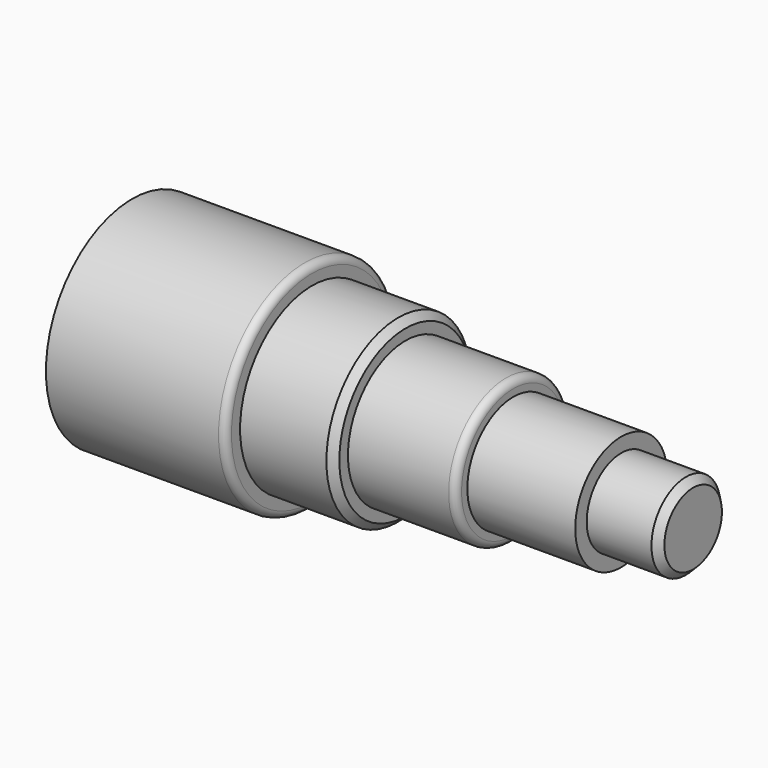
from build123d import *

# Parameters (mm, degrees)
F0_R     = 15
F1_DEPTH = 25
F2_R     = 12.5
F3_DEPTH = 13
F4_R     = 10
F5_DEPTH = 15
F6_R     = 8
F7_DEPTH = 15
F8_R     = 6
F9_DEPTH = 10
F10_R    = 1
F11_SIZE = 1


with BuildPart() as f1:
    # F0 (on Right) → F1 (new body)
    with BuildSketch(Plane.YZ):
        Circle(F0_R)
    extrude(amount=-F1_DEPTH)

    # F2 (on face) → F3 (join)
    with BuildSketch(Plane.YZ):
        Circle(F2_R)
    extrude(amount=F3_DEPTH)

    # F4 (on face) → F5 (join)
    with BuildSketch(Plane.YZ.offset(13)):
        Circle(F4_R)
    extrude(amount=F5_DEPTH)

    # F6 (on face) → F7 (join)
    with BuildSketch(Plane.YZ.offset(28)):
        Circle(F6_R)
    extrude(amount=F7_DEPTH)

    # F8 (on face) → F9 (join)
    with BuildSketch(Plane.YZ.offset(43)):
        Circle(F8_R)
    extrude(amount=F9_DEPTH)

    # F10
    f10_edges = [f1.edges().sort_by_distance(p)[0] for p in [
        (0, -15, 0),
        (28, -10, 0),
    ]]
    fillet(f10_edges, radius=F10_R)

    # F11
    f11_edges = [f1.edges().sort_by_distance(p)[0] for p in [
        (13, -12.5, 0),
        (53, -6, 0),
    ]]
    chamfer(f11_edges, length=F11_SIZE)


solid = f1.part
